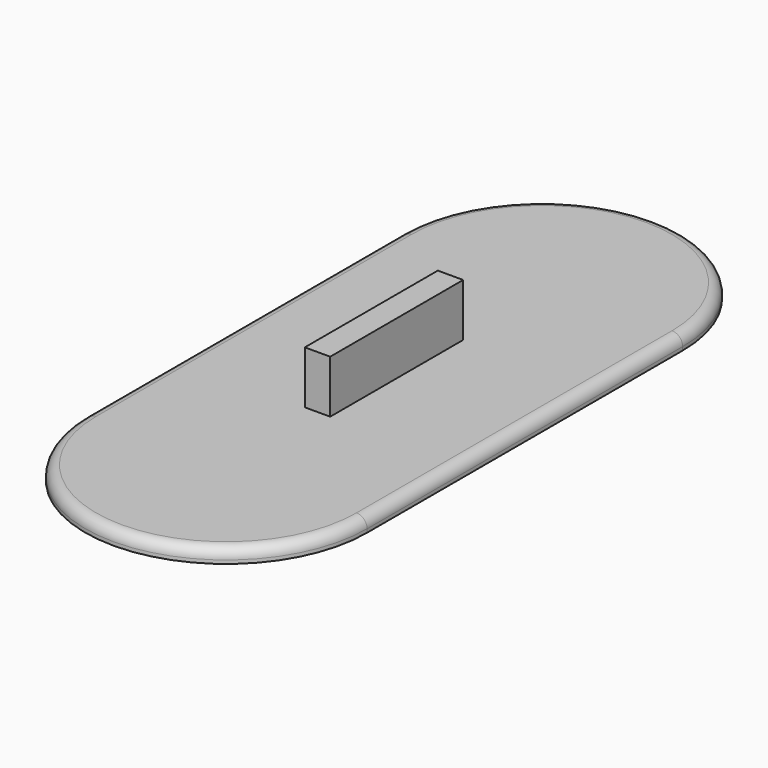
from build123d import *

# Parameters (mm, degrees)
F2_DEPTH = 1
F4_DEPTH = 2
F5_W     = 1.8
F5_H     = 11.8
F6_DEPTH = 7.5
F7_R     = 1.5


with BuildPart() as f2:
    # F1 (on Top) → F2 (new body)
    with BuildSketch(Plane.XY):
        with BuildLine():
            Line((0, 23), (0, 0))
            Line((0, 0), (-5, 0))
            Line((-5, 0), (-5, -28))
            ThreePointArc((-5, -28), (0, -23), (5, -28))
            Line((5, -28), (5, 0))
            Line((5, 0), (5, 28))
            ThreePointArc((5, 28), (3.5355339059, 24.4644660941), (0, 23))
        make_face()
        with BuildLine():
            Line((-5, 0), (0, 0))
            Line((0, 0), (0, 23))
            ThreePointArc((0, 23), (-3.5355339059, 24.4644660941), (-5, 28))
            Line((-5, 28), (-5, 0))
        make_face()
        with BuildLine():
            ThreePointArc((-5, 28), (-3.5355339059, 24.4644660941), (0, 23))
            Line((0, 23), (0, 28))
            Line((0, 28), (-5, 28))
        make_face()
        with BuildLine():
            Line((0, 28), (0, 23))
            ThreePointArc((0, 23), (3.5355339059, 24.4644660941), (5, 28))
            Line((5, 28), (0, 28))
        make_face()
        with BuildLine():
            ThreePointArc((5, 28), (0, 33), (-5, 28))
            Line((-5, 28), (0, 28))
            Line((0, 28), (5, 28))
        make_face()
        with BuildLine():
            ThreePointArc((5, -28), (0, -23), (-5, -28))
            ThreePointArc((-5, -28), (0, -33), (5, -28))
        make_face()
    extrude(amount=F2_DEPTH)

    # F3 (on Top) → F4 (join)
    with BuildSketch(Plane.XY):
        with BuildLine():
            Line((-20, 28), (-20, -28))
            ThreePointArc((-20, -28), (0, -48), (20, -28))
            Line((20, -28), (20, 28))
            ThreePointArc((20, 28), (0, 48), (-20, 28))
        make_face()
    extrude(amount=F4_DEPTH)

    # F5 (on face) → F6 (join)
    with BuildSketch(Plane.XY.offset(2)):
        with Locations((-0.9, -5.9)):
            Rectangle(F5_W, F5_H)
        with Locations((-0.9, 5.9)):
            Rectangle(F5_W, F5_H)
        with Locations((0.9, 5.9)):
            Rectangle(F5_W, F5_H)
        with Locations((0.9, -5.9)):
            Rectangle(F5_W, F5_H)
    extrude(amount=F6_DEPTH)

    # F7
    f7_edges = [f2.edges().sort_by_distance(p)[0] for p in [
        (-20, 0, 2),
    ]]
    fillet(f7_edges, radius=F7_R)


solid = f2.part
